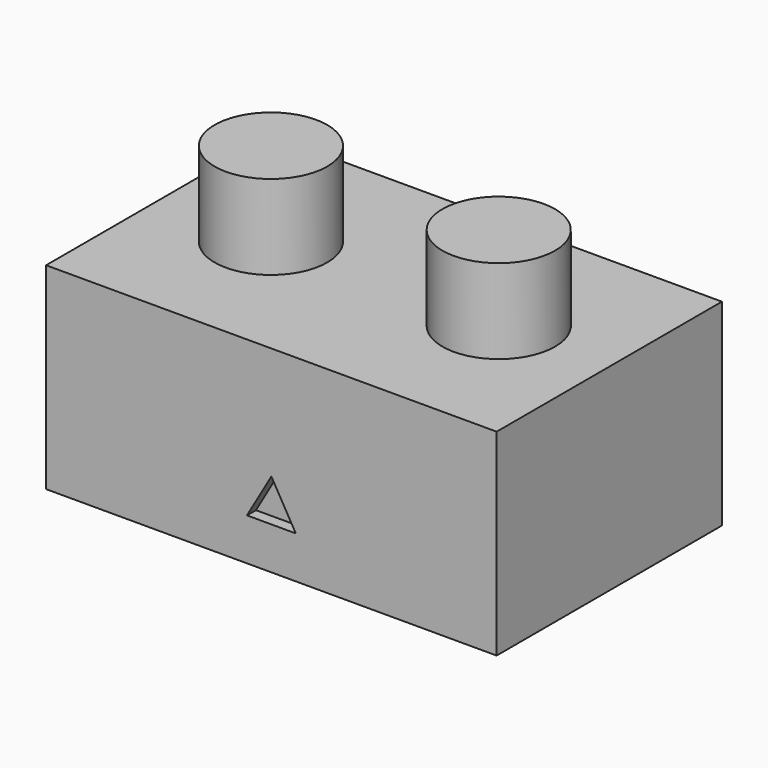
from build123d import *

# Parameters (mm, degrees)
F0_W     = 80
F0_H     = 50
F1_DEPTH = 35
F3_DEPTH = 2
F4_R     = 10
F5_DEPTH = 15


with BuildPart() as f1:
    # F0 (on Top) → F1 (new body)
    with BuildSketch(Plane.XY):
        Rectangle(F0_W, F0_H)
    extrude(amount=F1_DEPTH)

    # F2 (on face) → F3 (cut)
    with BuildSketch(Plane.XZ.offset(25)):
        Polygon((0, 15), (-4.330127, 7.5), (4.330127, 7.5), align=None)
    extrude(amount=-F3_DEPTH, mode=Mode.SUBTRACT)

    # F4 (on face) → F5 (join)
    with BuildSketch(Plane.XY.offset(35)):
        with Locations((-20.077403, 0)):
            Circle(F4_R)
        with Locations((20.374997, 0)):
            Circle(F4_R)
    extrude(amount=F5_DEPTH)


solid = f1.part
